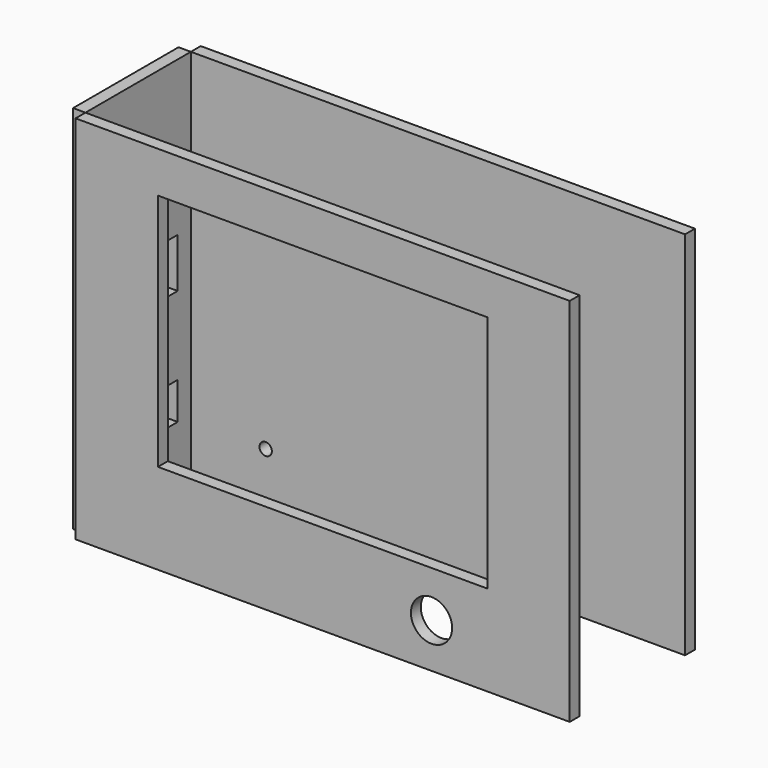
from build123d import *

# Parameters (mm, degrees)
F2_W     = 32
F2_H     = 90
F2_W_2   = 11
F2_H_2   = 9
F2_H_3   = 12
F3_DEPTH = 3
F0_W     = 120
F0_H     = 90
F0_R     = 5
F0_W_2   = 80
F0_H_2   = 58
F4_DEPTH = 3
F5_W     = 101.6
F5_H     = 53.3
F5_R     = 1.5
F6_DEPTH = 3


with BuildPart() as f3:
    # F2 (on offset) → F3 (new body)
    with BuildSketch(Plane.YZ.offset(-150)):
        with Locations((16, 65)):
            Rectangle(F2_W, F2_H)
        with Locations((22.5, 37)):
            Rectangle(F2_W_2, F2_H_2, mode=Mode.SUBTRACT)
        with Locations((22.5, 66.5)):
            Rectangle(F2_W_2, F2_H_3, mode=Mode.SUBTRACT)
    extrude(amount=-F3_DEPTH)


with BuildPart() as f4:
    # F0 (on Front) → F4 (new body)
    with BuildSketch(Plane.XZ):
        with Locations((-90, 65)):
            Rectangle(F0_W, F0_H)
        with Locations((-63.560285, 30.788196)):
            Circle(F0_R, mode=Mode.SUBTRACT)
        with Locations((-90, 71)):
            Rectangle(F0_W_2, F0_H_2, mode=Mode.SUBTRACT)
    extrude(amount=F4_DEPTH)


with BuildPart() as f6:
    # F5 (on face) → F6 (new body)
    with BuildSketch(Plane(origin=(0, 32, 0), x_dir=(-1, 0, 0), z_dir=(0, 1, 0))):
        Polygon((150, 110), (30, 110), (30, 20), (150, 20), (150, 28.5), (48.4, 28.5), (48.4, 81.8), (150, 81.8), align=None)
        with Locations((99.2, 55.15)):
            Rectangle(F5_W, F5_H)
        with Locations((66.258339, 31)):
            Circle(F5_R, mode=Mode.SUBTRACT)
        with Locations((131.834745, 31)):
            Circle(F5_R, mode=Mode.SUBTRACT)
        with Locations((61.1, 79.2)):
            Circle(F5_R, mode=Mode.SUBTRACT)
        with Locations((136, 79.2)):
            Circle(F5_R, mode=Mode.SUBTRACT)
    extrude(amount=F6_DEPTH)


solid = Compound([f3.part, f4.part, f6.part])
